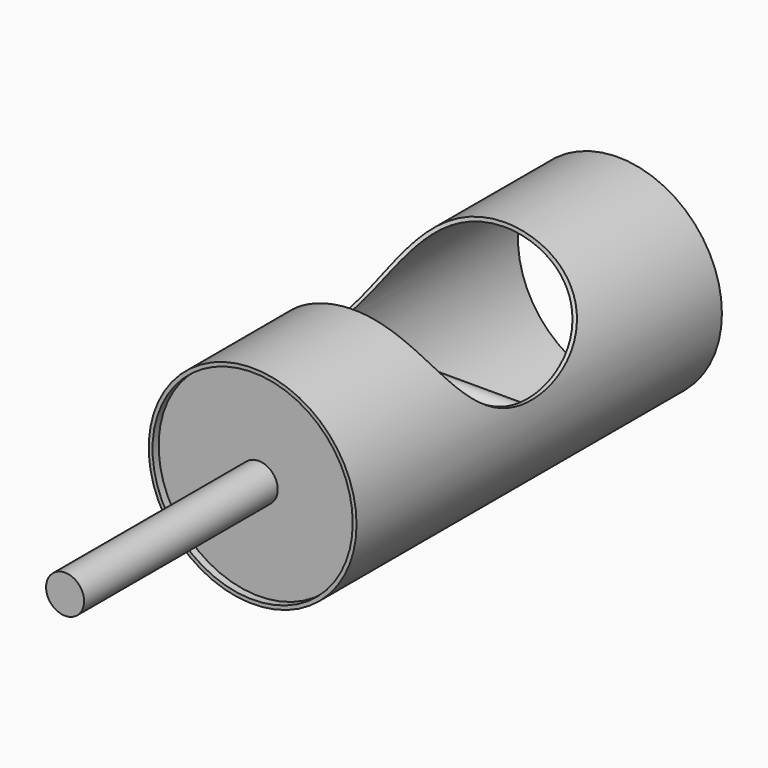
from build123d import *

# Parameters (mm, degrees)
F0_R      = 136.5
F0_R_2    = 131.5
F1_DEPTH  = 600
F3_R      = 131.5
F4_DEPTH  = 8
F5_R      = 25
F6_DEPTH  = 400
F7_R      = 15
F8_DEPTH  = 154
F9_DEPTH  = 149
F10_R     = 125
F11_DEPTH = 348
F12_R     = 175
F12_R_2   = 136.5
F13_DEPTH = 1133
F15_R     = 136.5
F15_R_2   = 25
F16_DEPTH = 8


with BuildPart() as f1:
    # F0 (on Front) → F1 (new body)
    with BuildSketch(Plane.XZ):
        Circle(F0_R)
        Circle(F0_R_2, mode=Mode.SUBTRACT)
    extrude(amount=F1_DEPTH)

    # F3 (on offset) → F4 (join)
    with BuildSketch(Plane.XZ.offset(500)):
        Circle(F3_R)
    extrude(amount=F4_DEPTH)

    # F5 (on face) → F6 (join)
    with BuildSketch(Plane.XZ.offset(508)):
        Circle(F5_R)
    extrude(amount=F6_DEPTH)

    # F7 (on Right) → F8 (join)
    with BuildSketch(Plane.YZ):
        with Locations((-310, 0)):
            Circle(F7_R)
    extrude(amount=F8_DEPTH)

    # F7 (on Right) → F9 (join)
    with BuildSketch(Plane.YZ):
        with Locations((-310, 0)):
            Circle(F7_R)
    extrude(amount=-F9_DEPTH)

    # F10 (on face) → F11 (cut)
    with BuildSketch(Plane.YZ.offset(154)):
        with Locations((-310, 150)):
            Circle(F10_R)
    extrude(amount=-F11_DEPTH, mode=Mode.SUBTRACT)

    # F12 (on face) → F13 (cut)
    with BuildSketch(Plane.XZ.offset(908)):
        Circle(F12_R)
        Circle(F12_R_2, mode=Mode.SUBTRACT)
    extrude(amount=-F13_DEPTH, mode=Mode.SUBTRACT)

    # F15 (on offset) → F16 (join)
    with BuildSketch(Plane.XZ.offset(590)):
        Circle(F15_R)
        Circle(F15_R_2, mode=Mode.SUBTRACT)
    extrude(amount=-F16_DEPTH)


solid = f1.part
